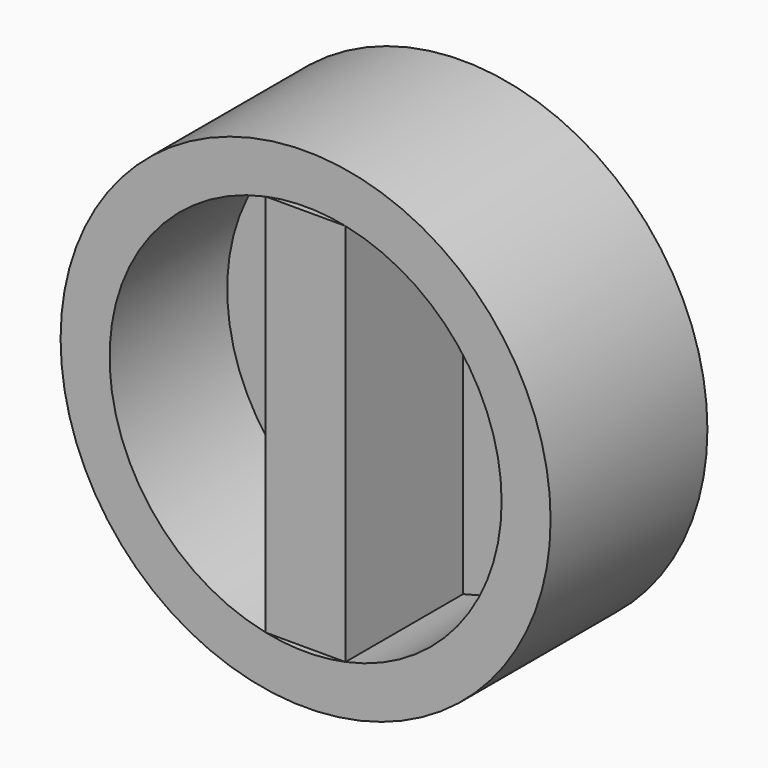
from build123d import *

# Parameters (mm, degrees)
F0_R     = 31.75
F1_DEPTH = 25.4
F2_DEPTH = 6.35
F0_W     = 10.3356370534
F0_H     = 49.7374567776
F3_DEPTH = 25.4


with BuildPart() as f1:
    # F0 (on Front) → F1 (new body)
    with BuildSketch(Plane.XZ):
        Circle(F0_R)
        with BuildLine():
            ThreePointArc((5.1678185267, 24.8687283888), (19.7030783201, 16.0296196059), (25.4, 0))
            ThreePointArc((25.4, 0), (19.7030783201, -16.0296196059), (5.1678185267, -24.8687283888))
            ThreePointArc((5.1678185267, -24.8687283888), (0, -25.4), (-5.1678185267, -24.8687283888))
            ThreePointArc((-5.1678185267, -24.8687283888), (-25.4, 0), (-5.1678185267, 24.8687283888))
            ThreePointArc((-5.1678185267, 24.8687283888), (0, 25.4), (5.1678185267, 24.8687283888))
        make_face(mode=Mode.SUBTRACT)
    extrude(amount=F1_DEPTH)

    # F0 (on Front) → F2 (join)
    with BuildSketch(Plane.XZ):
        with BuildLine():
            Line((-5.1678185267, 24.8687283888), (5.1678185267, 24.8687283888))
            ThreePointArc((5.1678185267, 24.8687283888), (0, 25.4), (-5.1678185267, 24.8687283888))
        make_face()
        with BuildLine():
            Line((-5.1678185267, -24.8687283888), (-5.1678185267, 24.8687283888))
            ThreePointArc((-5.1678185267, 24.8687283888), (-25.4, 0), (-5.1678185267, -24.8687283888))
        make_face()
        with BuildLine():
            ThreePointArc((-5.1678185267, -24.8687283888), (0, -25.4), (5.1678185267, -24.8687283888))
            Line((5.1678185267, -24.8687283888), (-5.1678185267, -24.8687283888))
        make_face()
        with BuildLine():
            ThreePointArc((5.1678185267, -24.8687283888), (19.7030783201, -16.0296196059), (25.4, 0))
            ThreePointArc((25.4, 0), (19.7030783201, 16.0296196059), (5.1678185267, 24.8687283888))
            Line((5.1678185267, 24.8687283888), (5.1678185267, -24.8687283888))
        make_face()
    extrude(amount=F2_DEPTH)


with BuildPart() as f3:
    # F0 (on Front) → F3 (new body)
    with BuildSketch(Plane.XZ):
        Rectangle(F0_W, F0_H)
    extrude(amount=F3_DEPTH)


solid = Compound([f1.part, f3.part])
